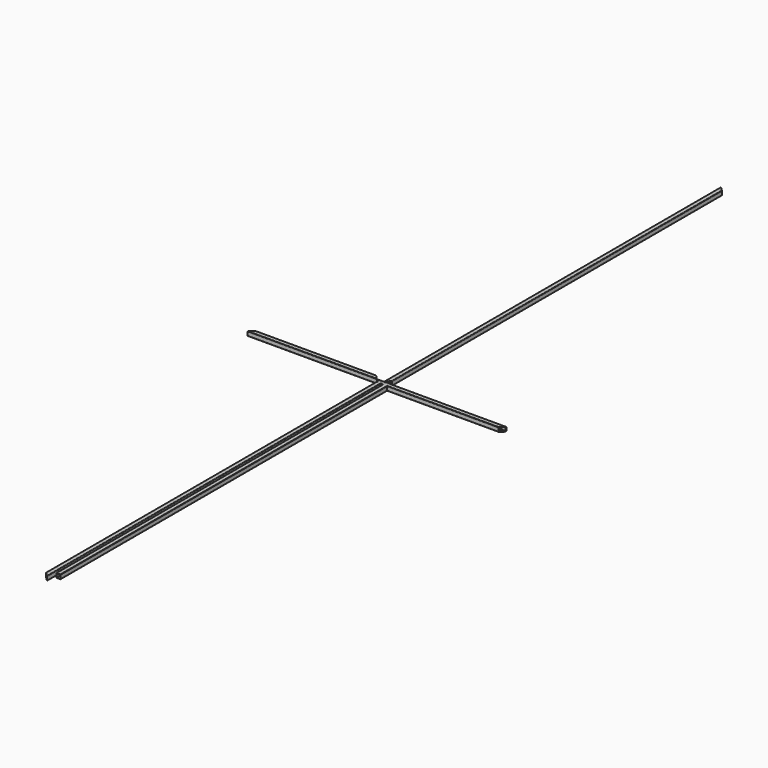
from build123d import *

# Parameters (mm, degrees)
F1_DEPTH  = 2410
F3_DEPTH  = 25.001
F5_DEPTH  = 740
F7_DEPTH  = 25
F9_DEPTH  = 2360
F10_ANGLE = 180
F11_ANGLE = 90
F12_ANGLE = 180


with BuildPart() as f1:
    # F0 (on Front) → F1 (new body)
    with BuildSketch(Plane.XZ):
        with BuildLine():
            ThreePointArc((12.5, 10), (11.767766953, 11.767766953), (10, 12.5))
            Line((10, 12.5), (-10, 12.5))
            ThreePointArc((-10, 12.5), (-11.767766953, 11.767766953), (-12.5, 10))
            Line((-12.5, 10), (-12.5, -10))
            ThreePointArc((-12.5, -10), (-11.767766953, -11.767766953), (-10, -12.5))
            Line((-10, -12.5), (10, -12.5))
            ThreePointArc((10, -12.5), (11.767766953, -11.767766953), (12.5, -10))
            Line((12.5, -10), (12.5, 10))
        make_face()
        with BuildLine():
            Line((-8.5, 10.5), (8.5, 10.5))
            ThreePointArc((8.5, 10.5), (9.9142135624, 9.9142135624), (10.5, 8.5))
            Line((10.5, 8.5), (10.5, -8.5))
            ThreePointArc((10.5, -8.5), (9.9142135624, -9.9142135624), (8.5, -10.5))
            Line((8.5, -10.5), (-8.5, -10.5))
            ThreePointArc((-8.5, -10.5), (-9.9142135624, -9.9142135624), (-10.5, -8.5))
            Line((-10.5, -8.5), (-10.5, 8.5))
            ThreePointArc((-10.5, 8.5), (-9.9142135624, 9.9142135624), (-8.5, 10.5))
        make_face(mode=Mode.SUBTRACT)
    extrude(amount=F1_DEPTH)

    # F2 (on face) → F3 (cut, through all)
    with BuildSketch(Plane.XY.offset(12.5)):
        Polygon((-10, 0), (-10, -22.5), (10, -2.5), (10, 0), align=None)
        Polygon((-12.5, 0), (-12.5, -25), (-10, -22.5), (-10, 0), align=None)
        Polygon((10, 0), (10, -2.5), (12.5, 0), align=None)
        Polygon((-10, -2387.5), (-10, -2410), (10, -2410), (10, -2407.5), align=None)
        Polygon((-12.5, -2385), (-12.5, -2410), (-10, -2410), (-10, -2387.5), align=None)
        Polygon((10, -2407.5), (10, -2410), (12.5, -2410), align=None)
    extrude(amount=-F3_DEPTH, mode=Mode.SUBTRACT)


with BuildPart() as f5:
    # F4 (on Front) → F5 (new body)
    with BuildSketch(Plane.XZ):
        with BuildLine():
            ThreePointArc((-28.1416002661, 9.9492897186), (-28.8738333131, 11.7170566716), (-30.6416002661, 12.4492897186))
            Line((-30.6416002661, 12.4492897186), (-50.6416002661, 12.4492897186))
            ThreePointArc((-50.6416002661, 12.4492897186), (-52.4093672191, 11.7170566716), (-53.1416002661, 9.9492897186))
            Line((-53.1416002661, 9.9492897186), (-53.1416002661, -10.0507102814))
            ThreePointArc((-53.1416002661, -10.0507102814), (-52.4093672191, -11.8184772343), (-50.6416002661, -12.5507102814))
            Line((-50.6416002661, -12.5507102814), (-30.6416002661, -12.5507102814))
            ThreePointArc((-30.6416002661, -12.5507102814), (-28.8738333131, -11.8184772343), (-28.1416002661, -10.0507102814))
            Line((-28.1416002661, -10.0507102814), (-28.1416002661, 9.9492897186))
        make_face()
        with BuildLine():
            Line((-49.1416002661, 10.4492897186), (-32.1416002661, 10.4492897186))
            ThreePointArc((-32.1416002661, 10.4492897186), (-30.7273867037, 9.863503281), (-30.1416002661, 8.4492897186))
            Line((-30.1416002661, 8.4492897186), (-30.1416002661, -8.5507102814))
            ThreePointArc((-30.1416002661, -8.5507102814), (-30.7273867037, -9.9649238437), (-32.1416002661, -10.5507102814))
            Line((-32.1416002661, -10.5507102814), (-49.1416002661, -10.5507102814))
            ThreePointArc((-49.1416002661, -10.5507102814), (-50.5558138285, -9.9649238437), (-51.1416002661, -8.5507102814))
            Line((-51.1416002661, -8.5507102814), (-51.1416002661, 8.4492897186))
            ThreePointArc((-51.1416002661, 8.4492897186), (-50.5558138285, 9.863503281), (-49.1416002661, 10.4492897186))
        make_face(mode=Mode.SUBTRACT)
    extrude(amount=F5_DEPTH)

    # F6 (on face) → F7 (cut)
    with BuildSketch(Plane.XY.offset(12.4492897186)):
        Polygon((-50.6416002661, -740), (-50.6416002661, -717.5), (-53.1416002661, -715), (-53.1416002661, -740), align=None)
        Polygon((-30.6416002661, -740), (-30.6416002661, -737.5), (-50.6416002661, -717.5), (-50.6416002661, -740), align=None)
        Polygon((-30.6416002661, -740), (-28.1416002661, -740), (-30.6416002661, -737.5), align=None)
        Polygon((-50.6416002661, -22.5), (-50.6416002661, 0), (-53.1416002661, 0), (-53.1416002661, -25), align=None)
        Polygon((-30.6416002661, -2.5), (-30.6416002661, 0), (-50.6416002661, 0), (-50.6416002661, -22.5), align=None)
        Polygon((-30.6416002661, -2.5), (-28.1416002661, 0), (-30.6416002661, 0), align=None)
    extrude(amount=-F7_DEPTH, mode=Mode.SUBTRACT)


with BuildPart() as f9:
    # F8 (on Front) → F9 (new body)
    with BuildSketch(Plane.XZ):
        with BuildLine():
            ThreePointArc((50.841993466, 10.1667010365), (50.109760419, 11.9344679895), (48.341993466, 12.6667010365))
            Line((48.341993466, 12.6667010365), (28.341993466, 12.6667010365))
            ThreePointArc((28.341993466, 12.6667010365), (26.5742265131, 11.9344679895), (25.841993466, 10.1667010365))
            Line((25.841993466, 10.1667010365), (25.841993466, -9.8332989635))
            ThreePointArc((25.841993466, -9.8332989635), (26.5742265131, -11.6010659165), (28.341993466, -12.3332989635))
            Line((28.341993466, -12.3332989635), (48.341993466, -12.3332989635))
            ThreePointArc((48.341993466, -12.3332989635), (50.109760419, -11.6010659165), (50.841993466, -9.8332989635))
            Line((50.841993466, -9.8332989635), (50.841993466, 10.1667010365))
        make_face()
        with BuildLine():
            Line((29.841993466, 10.6667010365), (46.841993466, 10.6667010365))
            ThreePointArc((46.841993466, 10.6667010365), (48.2562070284, 10.0809145989), (48.841993466, 8.6667010365))
            Line((48.841993466, 8.6667010365), (48.841993466, -8.3332989635))
            ThreePointArc((48.841993466, -8.3332989635), (48.2562070284, -9.7475125259), (46.841993466, -10.3332989635))
            Line((46.841993466, -10.3332989635), (29.841993466, -10.3332989635))
            ThreePointArc((29.841993466, -10.3332989635), (28.4277799036, -9.7475125259), (27.841993466, -8.3332989635))
            Line((27.841993466, -8.3332989635), (27.841993466, 8.6667010365))
            ThreePointArc((27.841993466, 8.6667010365), (28.4277799036, 10.0809145989), (29.841993466, 10.6667010365))
        make_face(mode=Mode.SUBTRACT)
    extrude(amount=F9_DEPTH)


with BuildPart() as f10_1:
    # F10: copy of F1
    add(f1.part.rotate(Axis((12.5, 0, 0), (0, 0, -1)), F10_ANGLE))


with BuildPart() as f5_1:
    # F11: moved
    add(f5.part.rotate(Axis((-28.1416002661, 0, -0.0507102814), (0, 0, -1)), F11_ANGLE))


with BuildPart() as f12_1:
    # F12: copy of F5
    add(f5_1.part.rotate(Axis((-28.1416002661, 0, -0.0507102814), (0, 0, -1)), F12_ANGLE))


solid = Compound([f1.part, f9.part, f10_1.part, f5_1.part, f12_1.part])
